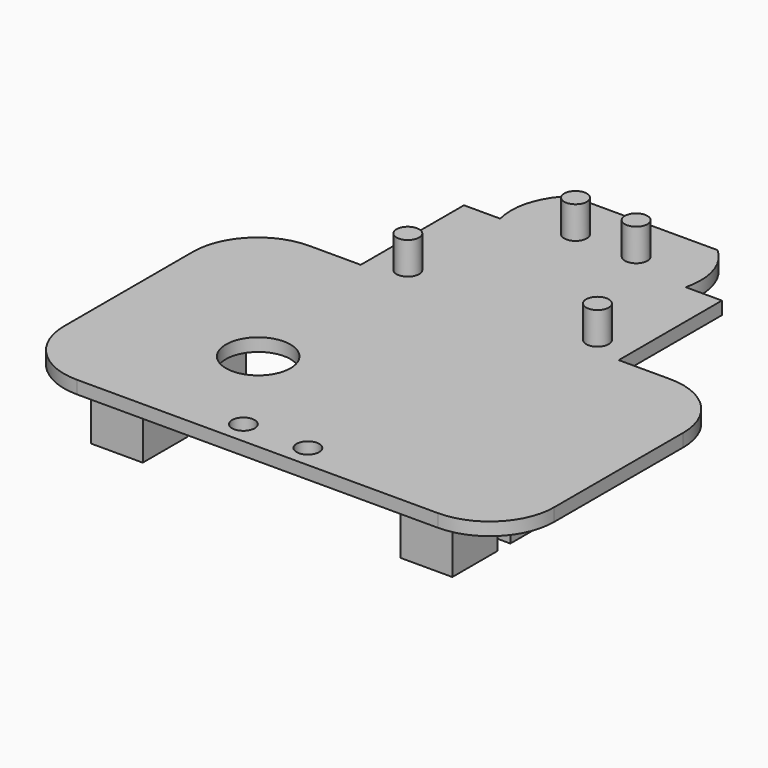
from build123d import *

# Parameters (mm, degrees)
F0_W      = 40
F0_H      = 30
F1_DEPTH  = 2
F2_R      = 1.75
F3_DEPTH  = 5
F4_R      = 1.75
F5_DEPTH  = 5
F7_DEPTH  = 2.001
F8_W      = 100
F8_H      = 50
F9_DEPTH  = 2
F10_R     = 5
F11_DEPTH = 2.001
F12_W     = 8
F12_H     = 20
F13_DEPTH = 10
F14_W     = 8
F14_H     = 8.75
F15_DEPTH = 2
F16_R     = 1.75
F17_DEPTH = 5
F18_R     = 1.75
F19_DEPTH = 7.001
F20_R     = 10


with BuildPart() as f1:
    # F0 (on Top) → F1 (new body)
    with BuildSketch(Plane.XY):
        with Locations((0, 12.5)):
            Rectangle(F0_W, F0_H)
    extrude(amount=F1_DEPTH)

    # F2 (on face) → F3 (join)
    with BuildSketch(Plane.XY.offset(2)):
        with Locations((14.7, 0)):
            Circle(F2_R)
        with Locations((-14.7, 0)):
            Circle(F2_R)
    extrude(amount=F3_DEPTH)

    # F4 (on face) → F5 (join)
    with BuildSketch(Plane.XY.offset(2)):
        with Locations((-4.7, 20)):
            Circle(F4_R)
        with Locations((4.7, 20)):
            Circle(F4_R)
    extrude(amount=F5_DEPTH)

    # F6 (on face) → F7 (cut, through all)
    with BuildSketch(Plane.XY.offset(2)):
        with BuildLine():
            ThreePointArc((-14.3824583655, 17.5), (-14.2570409722, 22.9432920101), (-11.298423737, 27.5140404701))
            Line((-11.298423737, 27.5140404701), (-20, 27.5140404701))
            Line((-20, 27.5140404701), (-20, 17.5))
            Line((-20, 17.5), (-14.3824583655, 17.5))
        make_face()
        with BuildLine():
            Line((20, 27.5140404701), (11.298423737, 27.5140404701))
            ThreePointArc((11.298423737, 27.5140404701), (14.2570409722, 22.9432920101), (14.3824583655, 17.5))
            Line((14.3824583655, 17.5), (20, 17.5))
            Line((20, 17.5), (20, 27.5140404701))
        make_face()
    extrude(amount=-F7_DEPTH, mode=Mode.SUBTRACT)

    # F8 (on Top) → F9 (join)
    with BuildSketch(Plane.XY):
        with Locations((0, -27.5)):
            Rectangle(F8_W, F8_H)
    extrude(amount=F9_DEPTH)

    # F10 (on face) → F11 (cut, through all)
    with BuildSketch(Plane.XY.offset(2)):
        with Locations((-14.7, -29)):
            Circle(F10_R)
    extrude(amount=-F11_DEPTH, mode=Mode.SUBTRACT)

    # F12 (on face) → F13 (join)
    with BuildSketch(Plane(origin=(0, 0, 0), x_dir=(1, 0, 0), z_dir=(0, 0, -1))):
        with Locations((-29, 28.5)):
            Rectangle(F12_W, F12_H)
        with Locations((19, 28.5)):
            Rectangle(F12_W, F12_H)
    extrude(amount=F13_DEPTH)

    # F14 (on face) → F15 (join)
    with BuildSketch(Plane(origin=(0, 0, -10), x_dir=(1, 0, 0), z_dir=(0, 0, -1))):
        with Locations((-29, 22.875)):
            Rectangle(F14_W, F14_H)
        with Locations((-29, 34.125)):
            Rectangle(F14_W, F14_H)
        with Locations((19, 34.125)):
            Rectangle(F14_W, F14_H)
        with Locations((19, 22.875)):
            Rectangle(F14_W, F14_H)
    extrude(amount=F15_DEPTH)

    # F16 (on face) → F17 (cut)
    with BuildSketch(Plane(origin=(0, 0, -12), x_dir=(1, 0, 0), z_dir=(0, 0, -1))):
        with Locations((-29.1, 33.5)):
            Circle(F16_R)
        with Locations((-29.1, 23.5)):
            Circle(F16_R)
        with Locations((19.1, 23.5)):
            Circle(F16_R)
        with Locations((19.1, 33.5)):
            Circle(F16_R)
    extrude(amount=-F17_DEPTH, mode=Mode.SUBTRACT)

    # F18 (on face) → F19 (cut, through all)
    with BuildSketch(Plane(origin=(0, 0, 0), x_dir=(1, 0, 0), z_dir=(0, 0, -1))):
        Polygon((-38, 52.5), (-50, 52.5), (-50, 47.5), (-50, 2.5), (-38, 2.5), (-38, 47.5), (38, 47.5), (38, 2.5), (50, 2.5), (50, 47.5), (50, 52.5), (38, 52.5), align=None)
        with Locations((-5, 44)):
            Circle(F18_R)
        with Locations((5, 44)):
            Circle(F18_R)
    extrude(amount=-F19_DEPTH, mode=Mode.SUBTRACT)

    # F20
    f20_edges = [f1.edges().sort_by_distance(p)[0] for p in [
        (-38, -2.5, 1),
        (38, -2.5, 1),
        (-38, -47.5, 1),
        (38, -47.5, 1),
    ]]
    fillet(f20_edges, radius=F20_R)


solid = f1.part
